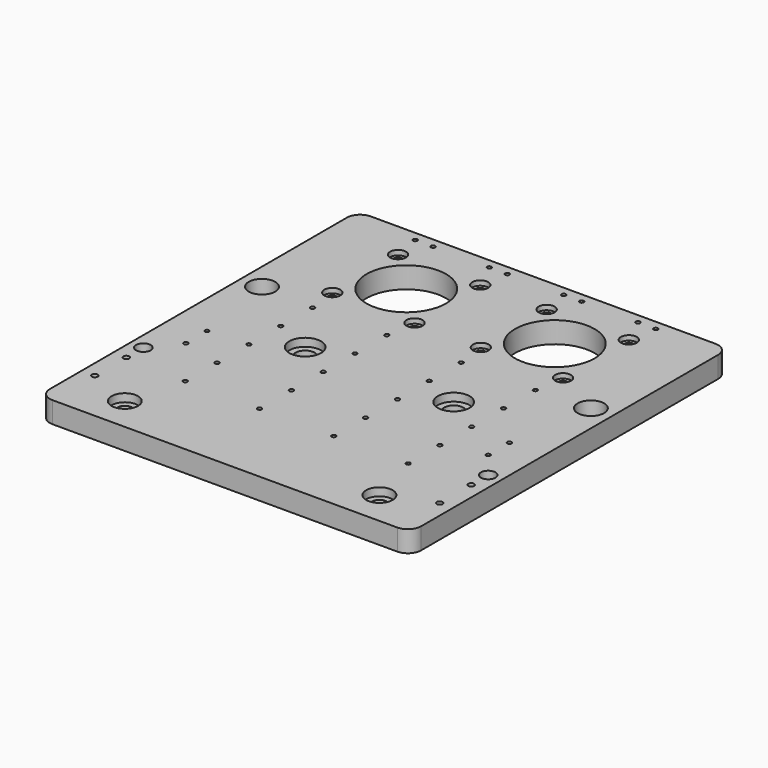
from build123d import *

# Parameters (mm, degrees)
PAD009_DEPTH        = 8
HOLE001_D           = 5.5
HOLE001_DEPTH       = 25
HOLE001_CBORE_D     = 10
HOLE001_CBORE_DEPTH = 3
HOLE003_D           = 7.2
HOLE003_DEPTH       = 25
HOLE003_CBORE_D     = 12
HOLE003_CBORE_DEPTH = 3
SKETCH028_R         = 0.8
HOLE004_DEPTH       = 25
HOLE005_D           = 3.3
HOLE005_DEPTH       = 25
HOLE005_CBORE_D     = 6
HOLE005_CBORE_DEPTH = 1.8
SKETCH030_R         = 15
POCKET015_DEPTH     = 8.001
SKETCH031_R         = 0.8
HOLE006_DEPTH       = 25
SKETCH044_R         = 2.75
HOLE_DEPTH          = 25
SKETCH060_R         = 5
POCKET018_DEPTH     = 8.001
SKETCH061_R         = 0.8
HOLE023_DEPTH       = 25
SKETCH062_R         = 1.1
HOLE024_DEPTH       = 25


with BuildPart() as part:
    # Sketch023 (on Part) → Pad009 (new body)
    with BuildSketch(Plane.XY):
        with BuildLine():
            Line((-65.00001, 20.59), (65.00001, 20.59))
            ThreePointArc((70, 15.579804), (68.539147, 19.121927), (65.00001, 20.59))
            Line((70, 15.579804), (70, -124.420196))
            ThreePointArc((65.00001, -129.41), (68.531938, -127.949137), (70, -124.420196))
            Line((65.00001, -129.41), (-65.00001, -129.41))
            ThreePointArc((-70, -124.420196), (-68.531938, -127.949137), (-65.00001, -129.41))
            Line((-70, 15.579804), (-70, -124.420196))
            ThreePointArc((-65.00001, 20.59), (-68.539147, 19.121927), (-70, 15.579804))
        make_face()
    extrude(amount=PAD009_DEPTH)

    # Hole001
    with Locations(Plane.XY.offset(8)):
        with Locations((-48, -116.56), (48, -116.56)):
            CounterBoreHole(HOLE001_D / 2, HOLE001_CBORE_D / 2, HOLE001_CBORE_DEPTH, depth=HOLE001_DEPTH)

    # Hole003
    with Locations(Plane.XY.offset(8)):
        with Locations((-28, -56.56), (28, -56.56)):
            CounterBoreHole(HOLE003_D / 2, HOLE003_CBORE_D / 2, HOLE003_CBORE_DEPTH, depth=HOLE003_DEPTH)

    # Sketch028 (on Face5 of Hole003) → Hole004 (cut)
    with BuildSketch(Plane.XY.offset(8)):
        with Locations((-42, -35.56)):
            Circle(SKETCH028_R)
        with Locations((-14, -35.56)):
            Circle(SKETCH028_R)
        with Locations((14, -35.56)):
            Circle(SKETCH028_R)
        with Locations((42, -35.56)):
            Circle(SKETCH028_R)
        with Locations((-42, -50.56)):
            Circle(SKETCH028_R)
        with Locations((-14, -50.56)):
            Circle(SKETCH028_R)
        with Locations((14, -50.56)):
            Circle(SKETCH028_R)
        with Locations((42, -50.56)):
            Circle(SKETCH028_R)
        with Locations((-42, -65.56)):
            Circle(SKETCH028_R)
        with Locations((-14, -65.56)):
            Circle(SKETCH028_R)
        with Locations((14, -65.56)):
            Circle(SKETCH028_R)
        with Locations((42, -65.56)):
            Circle(SKETCH028_R)
        with Locations((-42, -80.56)):
            Circle(SKETCH028_R)
        with Locations((-14, -80.56)):
            Circle(SKETCH028_R)
        with Locations((14, -80.56)):
            Circle(SKETCH028_R)
        with Locations((42, -80.56)):
            Circle(SKETCH028_R)
        with Locations((-42, -95.56)):
            Circle(SKETCH028_R)
        with Locations((-14, -95.56)):
            Circle(SKETCH028_R)
        with Locations((14, -95.56)):
            Circle(SKETCH028_R)
        with Locations((42, -95.56)):
            Circle(SKETCH028_R)
    extrude(amount=-HOLE004_DEPTH, mode=Mode.SUBTRACT)

    # Hole005
    with Locations(Plane.XY.offset(8)):
        with Locations((-43.5, 6.59), (-12.5, 6.59), (-43.5, -24.41), (-12.5, -24.41), (12.5, 6.59), (43.5, 6.59), (12.5, -24.41), (43.5, -24.41)):
            CounterBoreHole(HOLE005_D / 2, HOLE005_CBORE_D / 2, HOLE005_CBORE_DEPTH, depth=HOLE005_DEPTH)

    # Sketch030 (on Face5 of Hole005) → Pocket015 (cut, through all)
    with BuildSketch(Plane.XY.offset(8)):
        with Locations((-28, -8.91)):
            Circle(SKETCH030_R)
        with Locations((28, -8.91)):
            Circle(SKETCH030_R)
    extrude(amount=-POCKET015_DEPTH, mode=Mode.SUBTRACT)

    # Sketch031 (on Face5 of Pocket015) → Hole006 (cut)
    with BuildSketch(Plane.XY.offset(8)):
        with Locations((-45.38, 16.99)):
            Circle(SKETCH031_R)
        with Locations((-38.62, 16.99)):
            Circle(SKETCH031_R)
        with Locations((-17.38, 16.99)):
            Circle(SKETCH031_R)
        with Locations((-10.62, 16.99)):
            Circle(SKETCH031_R)
        with Locations((10.62, 16.99)):
            Circle(SKETCH031_R)
        with Locations((17.38, 16.99)):
            Circle(SKETCH031_R)
        with Locations((38.62, 16.99)):
            Circle(SKETCH031_R)
        with Locations((45.38, 16.99)):
            Circle(SKETCH031_R)
    extrude(amount=-HOLE006_DEPTH, mode=Mode.SUBTRACT)

    # Sketch044 (on Face5 of Hole006) → Hole (cut)
    with BuildSketch(Plane.XY.offset(8)):
        with Locations((-65, -86.56)):
            Circle(SKETCH044_R)
        with Locations((65, -86.56)):
            Circle(SKETCH044_R)
    extrude(amount=-HOLE_DEPTH, mode=Mode.SUBTRACT)

    # Sketch060 → Pocket018 (cut, through all)
    with BuildSketch(Plane.XY):
        with Locations((-62, -34.420196)):
            Circle(SKETCH060_R)
        with Locations((62, -34.420196)):
            Circle(SKETCH060_R)
    extrude(amount=POCKET018_DEPTH, mode=Mode.SUBTRACT)

    # Sketch061 (on Face5 of Pocket018) → Hole023 (cut)
    with BuildSketch(Plane.XY.offset(8)):
        with Locations((-57, -66.56)):
            Circle(SKETCH061_R)
        with Locations((-57, -76.56)):
            Circle(SKETCH061_R)
        with Locations((57, -66.56)):
            Circle(SKETCH061_R)
        with Locations((57, -76.56)):
            Circle(SKETCH061_R)
    extrude(amount=-HOLE023_DEPTH, mode=Mode.SUBTRACT)

    # Sketch062 (on Face5 of Hole023) → Hole024 (cut)
    with BuildSketch(Plane.XY.offset(8)):
        with Locations((-65, -109.420196)):
            Circle(SKETCH062_R)
        with Locations((-65, -94.56)):
            Circle(SKETCH062_R)
        with Locations((65, -109.420196)):
            Circle(SKETCH062_R)
        with Locations((65, -94.56)):
            Circle(SKETCH062_R)
    extrude(amount=-HOLE024_DEPTH, mode=Mode.SUBTRACT)


solid = part.part
